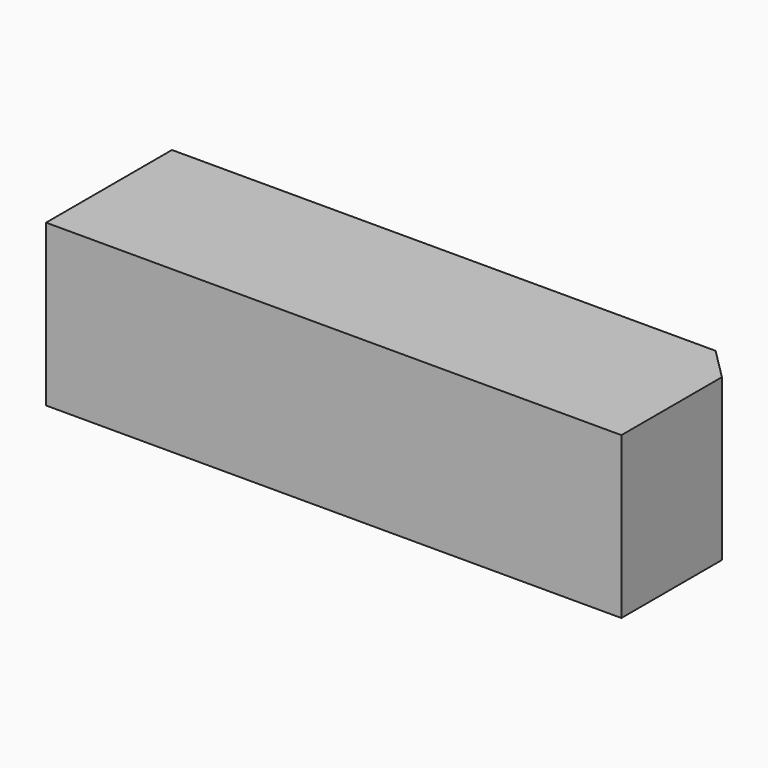
from build123d import *

# Parameters (mm, degrees)
F1_W     = 90.756927
F1_H     = 24.821222
F2_DEPTH = 25.4
F3_SIZE  = 5


with BuildPart() as f2:
    # F1 (on Top) → F2 (new body)
    with BuildSketch(Plane.XY):
        with Locations((5.23031, 26.673347)):
            Rectangle(F1_W, F1_H)
    extrude(amount=F2_DEPTH)

    # F3
    f3_edges = [f2.edges().sort_by_distance(p)[0] for p in [
        (5.230309, 39.083958, 0),
        (50.608773, 39.083958, 12.7),
    ]]
    chamfer(f3_edges, length=F3_SIZE)


solid = f2.part
